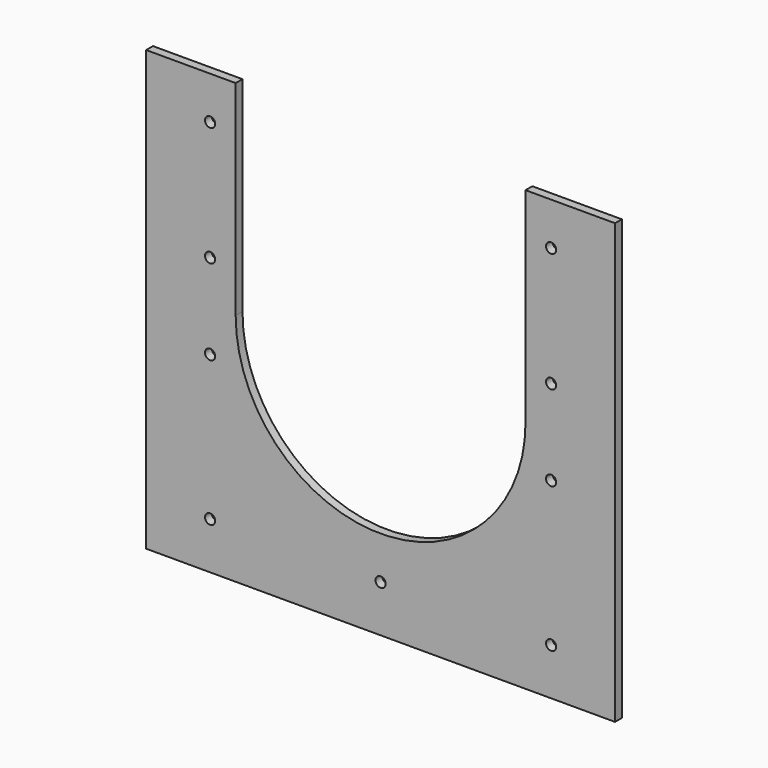
from build123d import *

# Parameters (mm, degrees)
SKETCH005_R      = 6
EXTRUDE004_DEPTH = 1000
EXTRUDE003_DEPTH = 1000
SKETCH003_W      = 550
SKETCH003_H      = 10
EXTRUDE002_DEPTH = 515


with BuildPart() as extrude004:
    # Sketch005 → Extrude004 (new body)
    with BuildSketch(Plane.XZ.offset(2500)):
        with Locations((-200, 1730)):
            Circle(SKETCH005_R)
        with Locations((-200, 1870)):
            Circle(SKETCH005_R)
        with Locations((200, 1870)):
            Circle(SKETCH005_R)
        with Locations((200, 1730)):
            Circle(SKETCH005_R)
        with Locations((-200, 1630)):
            Circle(SKETCH005_R)
        with Locations((-200, 1460)):
            Circle(SKETCH005_R)
        with Locations((200, 1630)):
            Circle(SKETCH005_R)
        with Locations((200, 1460)):
            Circle(SKETCH005_R)
        with Locations((0, 1460)):
            Circle(SKETCH005_R)
    extrude(amount=-EXTRUDE004_DEPTH)


with BuildPart() as extrude003:
    # Sketch004 → Extrude003 (new body)
    with BuildSketch(Plane.XZ.offset(2500)):
        with BuildLine():
            Line((-170, 1920), (-170, 1680))
            ThreePointArc((-170, 1680), (-4.8e-05, 1510), (170, 1679.999905))
            Line((170, 1679.999905), (170, 1920))
            Line((170, 1920), (-170, 1920))
        make_face()
    extrude(amount=-EXTRUDE003_DEPTH)


with BuildPart() as cut002:
    # Sketch003 → Extrude002 (new body)
    with BuildSketch(Plane.XY.offset(1405)):
        with Locations((0, -1920.580576)):
            Rectangle(SKETCH003_W, SKETCH003_H)
    extrude(amount=EXTRUDE002_DEPTH)

    # Cut001: cut Extrude003
    add(extrude003.part, mode=Mode.SUBTRACT)

    # Cut002: cut Extrude004
    add(extrude004.part, mode=Mode.SUBTRACT)


solid = cut002.part
